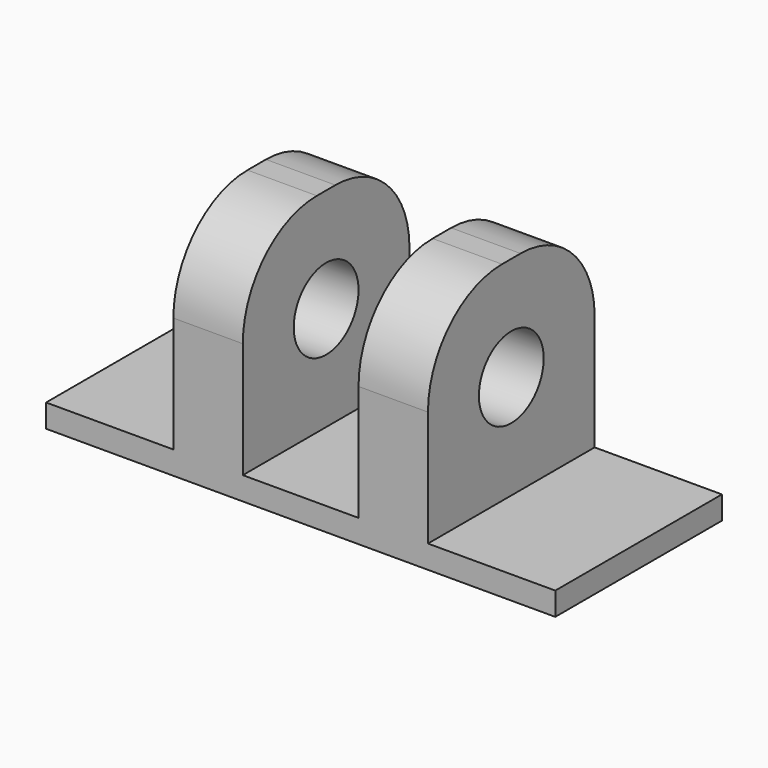
from build123d import *

# Parameters (mm, degrees)
F1_DEPTH = 9
F2_R     = 1.75
F3_DEPTH = 25
F4_R     = 4
F5_ANGLE = 90


with BuildPart() as f1:
    # F0 (on Top) → F1 (new body)
    with BuildSketch(Plane.XY):
        Polygon((-11, 1), (-11, 0), (11, 0), (11, 1), (5.5, 1), (5.5, 10), (2.5, 10), (2.5, 1), (-2.5, 1), (-2.5, 10), (-5.5, 10), (-5.5, 1), align=None)
    extrude(amount=F1_DEPTH)

    # F2 (on face) → F3 (cut)
    with BuildSketch(Plane.YZ.offset(5.5)):
        with Locations((5.5, 4.5)):
            Circle(F2_R)
    extrude(amount=-F3_DEPTH, mode=Mode.SUBTRACT)

    # F4
    f4_edges = [f1.edges().sort_by_distance(p)[0] for p in [
        (-4, 10, 9),
        (4, 10, 9),
        (4, 10, 0),
        (-4, 10, 0),
    ]]
    fillet(f4_edges, radius=F4_R)


with BuildPart() as f1_1:
    # F5: moved
    add(f1.part.rotate(Axis((0, 0, 0), (1, 0, 0)), F5_ANGLE))


solid = f1_1.part
